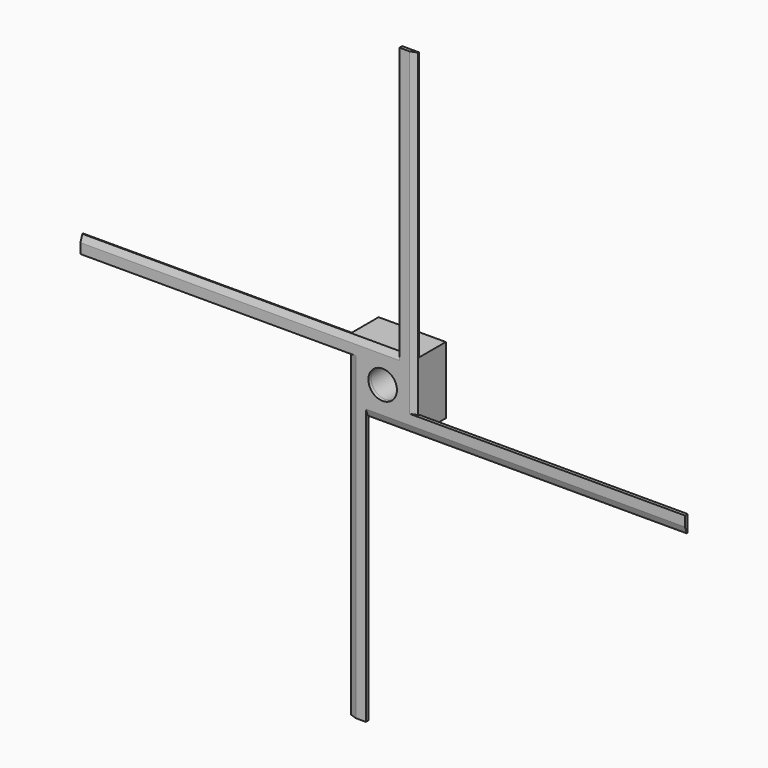
from build123d import *

# Parameters (mm, degrees)
F0_W     = 10
F0_H     = 160
F0_W_2   = 160
F0_H_2   = 10
F0_R     = 8.5
F1_DEPTH = 2
F2_DEPTH = 20
F3_SIZE2 = 1.4558809371
F3_SIZE  = 4


with BuildPart() as f1:
    # F0 (on Front) → F1 (new body)
    with BuildSketch(Plane.XZ):
        with Locations((15, 100)):
            Rectangle(F0_W, F0_H)
        with Locations((-100, 15)):
            Rectangle(F0_W_2, F0_H_2)
        Polygon((-10, -20), (20, -20), (20, -10), (20, 20), (10, 20), (-20, 20), (-20, 10), (-20, -20), align=None)
        Circle(F0_R, mode=Mode.SUBTRACT)
        with Locations((100, -15)):
            Rectangle(F0_W_2, F0_H_2)
        with Locations((-15, -100)):
            Rectangle(F0_W, F0_H)
    extrude(amount=F1_DEPTH)

    # F0 (on Front) → F2 (join)
    with BuildSketch(Plane.XZ):
        Polygon((-10, -20), (20, -20), (20, -10), (20, 20), (10, 20), (-20, 20), (-20, 10), (-20, -20), align=None)
        Circle(F0_R, mode=Mode.SUBTRACT)
    extrude(amount=-F2_DEPTH)

    # F3
    f3_edges = [f1.edges().sort_by_distance(p)[0] for p in [
        (-85, -2, 20),
        (20, -2, 85),
        (85, -2, -20),
        (-20, -2, -85),
    ]]
    f3_side = f1.faces().sort_by_distance((15, -2, 174.908831))[0]
    chamfer(f3_edges, length=F3_SIZE, length2=F3_SIZE2, reference=f3_side)


solid = f1.part
